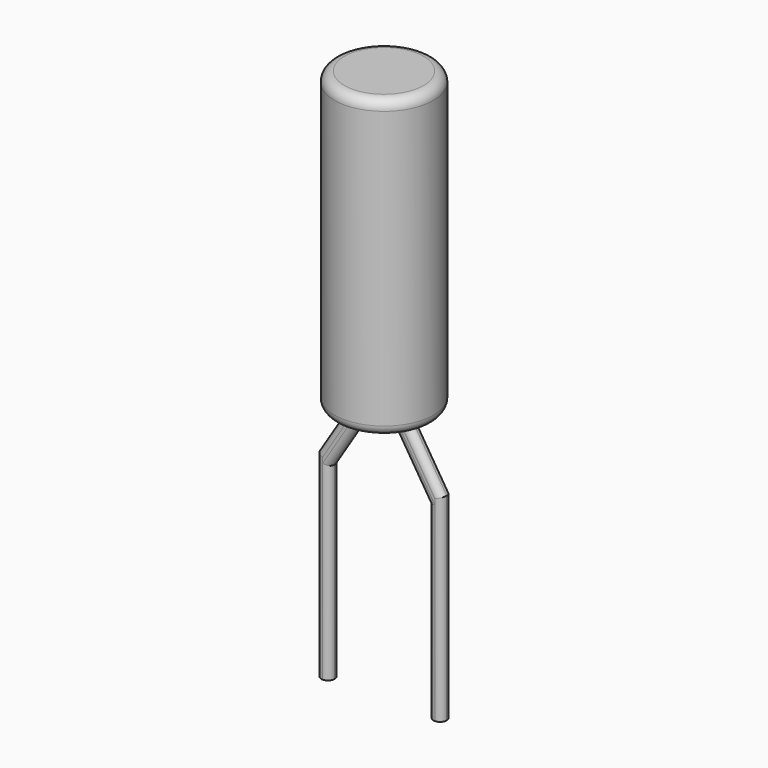
from build123d import *

# Parameters (mm, degrees)
PAD_DEPTH = 0.1
FILLET_R  = 0.0998


with BuildPart() as revolution:
    # Sketch002 → Revolution (revolve)
    with BuildSketch(Plane.XZ):
        with BuildLine():
            Line((0.25, 5.46), (0.85, 5.46))
            Line((0.85, 0.96), (0.85, 5.46))
            Line((0.85, 0.96), (0.25, 0.96))
            ThreePointArc((0.1, 1.11), (0.143934, 1.003934), (0.25, 0.96))
            Line((0.1, 1.11), (0.1, 5.31))
            ThreePointArc((0.25, 5.46), (0.143934, 5.416066), (0.1, 5.31))
        make_face()
    revolve(axis=Axis((0.85, 0, 5.46), (0, 0, -1)))


with BuildPart() as fillet_body:
    # Sketch → Pad (new body, symmetric)
    with BuildSketch(Plane.XZ):
        Polygon((0.1, -2.9), (0.1, -0.041421), (0.6, 0.758579), (0.6, 1), (0.4, 1), (0.4, 0.9), (-0.1, 0.1), (-0.1, -2.9), align=None)
        Polygon((1.1, 1), (1.3, 1), (1.3, 0.9), (1.8, 0.1), (1.8, -2.9), (1.6, -2.9), (1.6, -0.041421), (1.1, 0.758579), align=None)
    extrude(amount=PAD_DEPTH, both=True)

    # Fillet
    fillet_edges = [fillet_body.edges().sort_by_distance(p)[0] for p in [
        (0.15, -0.1, 0.5),
        (0.4, -0.1, 0.95),
        (0.6, -0.1, 0.879289),
        (0.35, -0.1, 0.358579),
        (0.1, -0.1, -1.470711),
        (-0.1, -0.1, -1.4),
        (0.1, 0.1, -1.470711),
        (0.35, 0.1, 0.358579),
        (0.6, 0.1, 0.879289),
        (1.35, -0.1, 0.358579),
        (1.1, -0.1, 0.879289),
        (1.6, -0.1, -1.470711),
        (1.8, -0.1, -1.4),
        (1.55, -0.1, 0.5),
        (1.3, -0.1, 0.95),
        (1.3, 0.1, 0.95),
        (1.55, 0.1, 0.5),
        (1.8, 0.1, -1.4),
        (1.6, 0.1, -1.470711),
        (1.35, 0.1, 0.358579),
        (1.1, 0.1, 0.879289),
        (0.4, 0.1, 0.95),
        (-0.1, 0.1, -1.4),
        (0.15, 0.1, 0.5),
    ]]
    fillet(fillet_edges, radius=FILLET_R)


solid = Compound([revolution.part, fillet_body.part])
